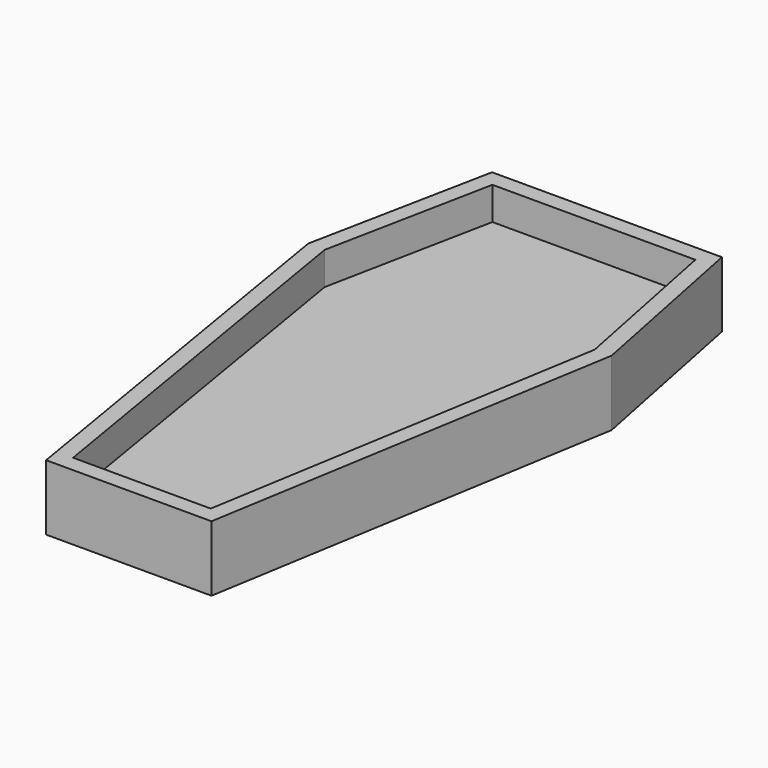
from build123d import *

# Parameters (mm, degrees)
F1_DEPTH = 6.35
F3_DEPTH = 6.35


with BuildPart() as f1:
    # F0 (on Top) → F1 (new body)
    with BuildSketch(Plane.XY):
        Polygon((-22.265523135, 35.6723076694), (-29.3871263153, 0.0642917681), (-16.0226930757, -80.1223076694), (16.0226930757, -80.1223076694), (29.3871263153, 0.0642917681), (22.265523135, 35.6723076694), align=None)
        Polygon((-19.6626457439, 32.4973076694), (19.6626457439, 32.4973076694), (26.1596574071, 0.012249353), (13.3330645701, -76.9473076694), (-13.3330645701, -76.9473076694), (-26.1596574071, 0.012249353), align=None, mode=Mode.SUBTRACT)
        Polygon((26.1596574071, 0.012249353), (19.6626457439, 32.4973076694), (-19.6626457439, 32.4973076694), (-26.1596574071, 0.012249353), (-13.3330645701, -76.9473076694), (13.3330645701, -76.9473076694), align=None)
        Polygon((-25.4, 0), (-19.05, 31.75), (0, 31.75), (19.05, 31.75), (25.4, 0), (12.7, -76.2), (-12.7, -76.2), align=None, mode=Mode.SUBTRACT)
        Polygon((0, 31.75), (-19.05, 31.75), (-25.4, 0), (-12.7, -76.2), (12.7, -76.2), (25.4, 0), (19.05, 31.75), align=None)
    extrude(amount=F1_DEPTH)

    # F2 (on face) → F3 (join)
    with BuildSketch(Plane.XY.offset(6.35)):
        Polygon((-16.0226930757, -80.1223076694), (16.0226930757, -80.1223076694), (29.3871263153, 0.0642917681), (22.265523135, 35.6723076694), (-22.265523135, 35.6723076694), (-29.3871263153, 0.0642917681), align=None)
        Polygon((26.1596574071, 0.012249353), (13.3330645701, -76.9473076694), (-13.3330645701, -76.9473076694), (-26.1596574071, 0.012249353), (-19.6626457439, 32.4973076694), (19.6626457439, 32.4973076694), align=None, mode=Mode.SUBTRACT)
    extrude(amount=F3_DEPTH)


solid = f1.part
